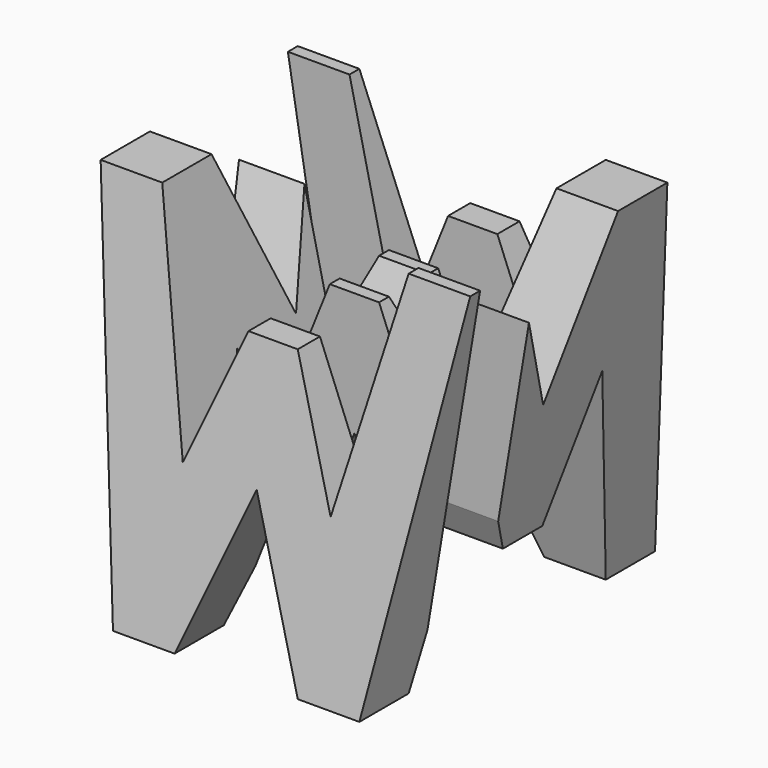
from build123d import *

# Parameters (mm, degrees)
F0_W     = 38.1
F0_H     = 38.1
F1_DEPTH = 38.1
F5_DEPTH = 38.1
F7_DEPTH = 38.1
F8_W     = 25.4
F8_H     = 7.62
F9_DEPTH = 38.1


with BuildPart() as f1:
    # F0 (on Front) → F1 (new body)
    with BuildSketch(Plane.XZ):
        with Locations((19.05, 19.05)):
            Rectangle(F0_W, F0_H)
    extrude(amount=F1_DEPTH)

    # F4 (on offset) → F5 (cut)
    with BuildSketch(Plane.XZ.offset(38.1)):
        Polygon((0, 38.1), (0, 0), (6.35, 0), align=None)
        Polygon((19.05, 15.875), (12.7, 0), (19.05, 0), (25.4, 0), align=None)
        Polygon((31.75, 38.1), (6.35, 38.1), (11.43, 15.875), (16.51, 28.575), (21.59, 28.575), (26.67, 15.875), align=None)
        Polygon((38.1, 0), (38.1, 38.1), (31.75, 0), align=None)
    extrude(amount=-F5_DEPTH, mode=Mode.SUBTRACT)

    # F6 (on offset) → F7 (cut)
    with BuildSketch(Plane.YZ.offset(38.1)):
        Polygon((-31.75, 0), (-6.35, 0), (-11.43, 22.225), (-16.51, 9.525), (-21.59, 9.525), (-26.67, 22.225), align=None)
        Polygon((-6.35, 38.1), (0, 0), (0, 38.1), align=None)
        Polygon((-19.05, 22.225), (-12.7, 38.1), (-25.4, 38.1), align=None)
        Polygon((-38.1, 38.1), (-38.1, 0), (-31.75, 38.1), align=None)
    extrude(amount=-F7_DEPTH, mode=Mode.SUBTRACT)

    # F8 (on Top) → F9 (cut)
    with BuildSketch(Plane.XY):
        with Locations((12.7, -11.43)):
            Rectangle(F8_W, F8_H)
        with Locations((25.4, -26.67)):
            Rectangle(F8_W, F8_H)
    extrude(amount=F9_DEPTH, mode=Mode.SUBTRACT)


solid = f1.part
